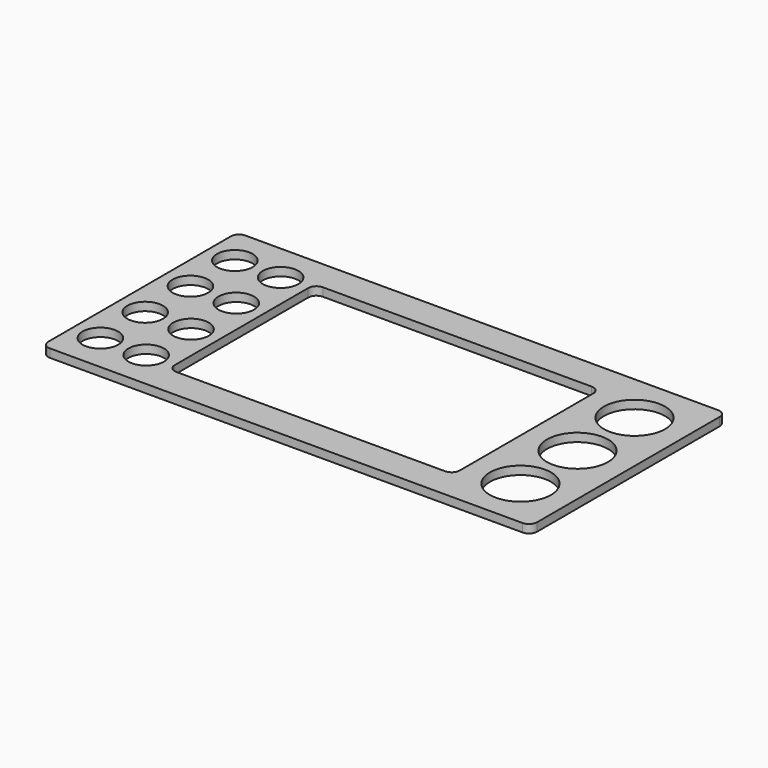
from build123d import *

# Parameters (mm, degrees)
F0_W     = 304.8
F0_H     = 152.4
F1_DEPTH = 5.207
F2_W     = 177.8
F2_H     = 114.3
F3_DEPTH = 5.208
F4_R     = 19.05
F5_DEPTH = 5.208
F6_R     = 11.1125
F7_DEPTH = 5.208
F10_R    = 5.08
F11_R    = 5.08


with BuildPart() as f1:
    # F0 (on Top) → F1 (new body)
    with BuildSketch(Plane.XY):
        Rectangle(F0_W, F0_H)
    extrude(amount=F1_DEPTH)

    # F2 (on face) → F3 (cut, through all)
    with BuildSketch(Plane.XY.offset(5.207)):
        Rectangle(F2_W, F2_H)
    extrude(amount=-F3_DEPTH, mode=Mode.SUBTRACT)

    # F4 (on face) → F5 (cut, through all)
    with BuildSketch(Plane.XY.offset(5.207)):
        with Locations((120.65, -44.45)):
            Circle(F4_R)
        with Locations((120.65, 0)):
            Circle(F4_R)
        with Locations((120.65, 44.45)):
            Circle(F4_R)
    extrude(amount=-F5_DEPTH, mode=Mode.SUBTRACT)

    # F6 (on face) → F7 (cut, through all)
    with BuildSketch(Plane.XY.offset(5.207)):
        with Locations((-134.9375, 52.3875)):
            Circle(F6_R)
        with Locations((-106.3625, 52.3875)):
            Circle(F6_R)
        with Locations((-134.9375, 17.7927)):
            Circle(F6_R)
        with Locations((-106.3625, 17.7927)):
            Circle(F6_R)
        with Locations((-134.9375, -17.4625)):
            Circle(F6_R)
        with Locations((-106.3625, -17.4625)):
            Circle(F6_R)
        with Locations((-134.9375, -52.3875)):
            Circle(F6_R)
        with Locations((-106.3625, -52.3875)):
            Circle(F6_R)
    extrude(amount=-F7_DEPTH, mode=Mode.SUBTRACT)

    # F10
    f10_edges = [f1.edges().sort_by_distance(p)[0] for p in [
        (-152.4, -76.2, 2.6035),
        (-152.4, 76.2, 2.6035),
        (152.4, 76.2, 2.6035),
        (152.4, -76.2, 2.6035),
    ]]
    fillet(f10_edges, radius=F10_R)

    # F11
    f11_edges = [f1.edges().sort_by_distance(p)[0] for p in [
        (-88.9, 57.15, 2.6035),
        (-88.9, -57.15, 2.6035),
        (88.9, 57.15, 2.6035),
        (88.9, -57.15, 2.6035),
    ]]
    fillet(f11_edges, radius=F11_R)


with BuildPart() as f8_1:
    # F8: copy of F1
    add(f1.part)


solid = f1.part
